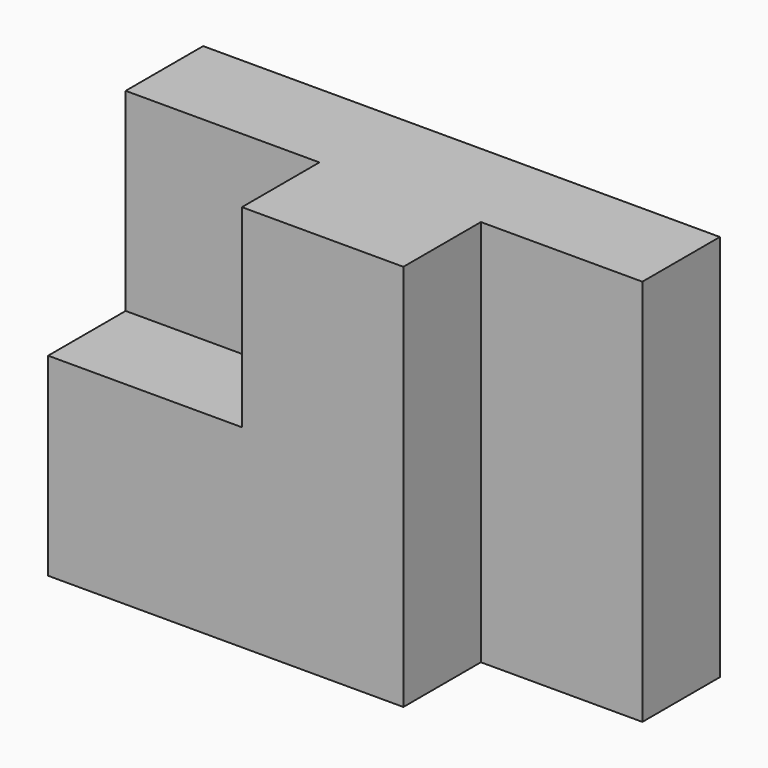
from build123d import *

# Parameters (mm, degrees)
F0_W     = 80
F0_H     = 60
F1_DEPTH = 15
F3_DEPTH = 15


with BuildPart() as f1:
    # F0 (on Front) → F1 (new body)
    with BuildSketch(Plane.XZ):
        with Locations((40, 30)):
            Rectangle(F0_W, F0_H)
    extrude(amount=F1_DEPTH)

    # F2 (on face) → F3 (join)
    with BuildSketch(Plane.XZ.offset(15)):
        Polygon((55, 60), (30, 60), (30, 30), (0, 30), (0, 0), (55, 0), align=None)
    extrude(amount=F3_DEPTH)


solid = f1.part
